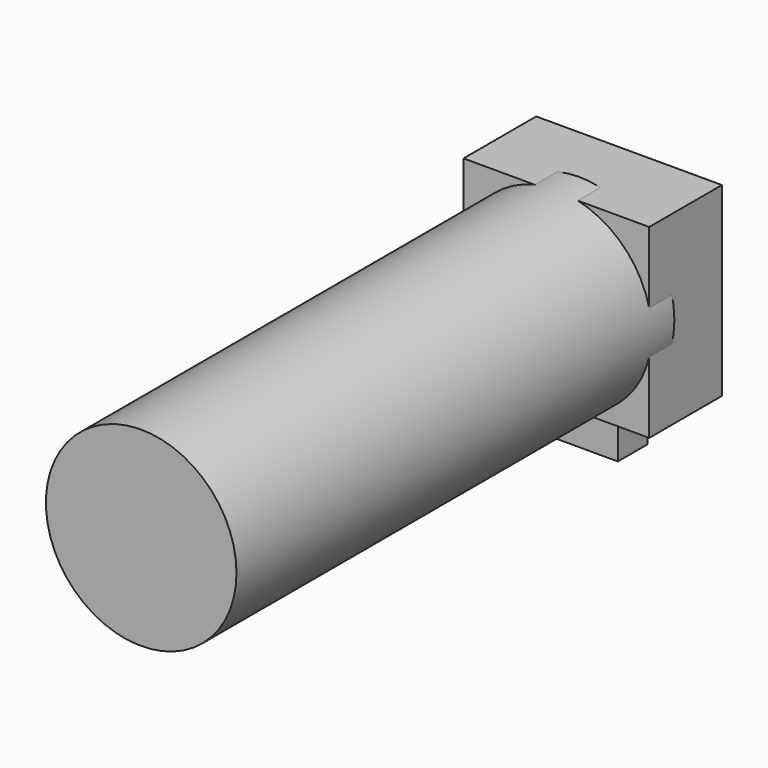
from build123d import *

# Parameters (mm, degrees)
SKETCH_W     = 38
SKETCH_H     = 38
PAD_DEPTH    = 18.6
SKETCH001_W  = 13.97
SKETCH001_H  = 12
PAD001_DEPTH = 7.62
SKETCH002_R  = 19.5
PAD002_DEPTH = 112
SKETCH003_R  = 3.175
POCKET_DEPTH = 20


with BuildPart() as part:
    # Sketch → Pad (new body)
    with BuildSketch(Plane.XZ):
        Rectangle(SKETCH_W, SKETCH_H)
    extrude(amount=PAD_DEPTH)

    # Sketch001 → Pad001 (join)
    with BuildSketch(Plane.XZ.offset(3.98)):
        with Locations((0, -24)):
            Rectangle(SKETCH001_W, SKETCH001_H)
    extrude(amount=PAD001_DEPTH)

    # Sketch002 → Pad002 (join)
    with BuildSketch(Plane.XZ.offset(12.8)):
        Circle(SKETCH002_R)
    extrude(amount=PAD002_DEPTH)

    # Sketch003 → Pocket (cut)
    with BuildSketch(Plane.XY.offset(-20)):
        with Locations((0, -7.85)):
            Circle(SKETCH003_R)
    extrude(amount=-POCKET_DEPTH, mode=Mode.SUBTRACT)


solid = part.part
